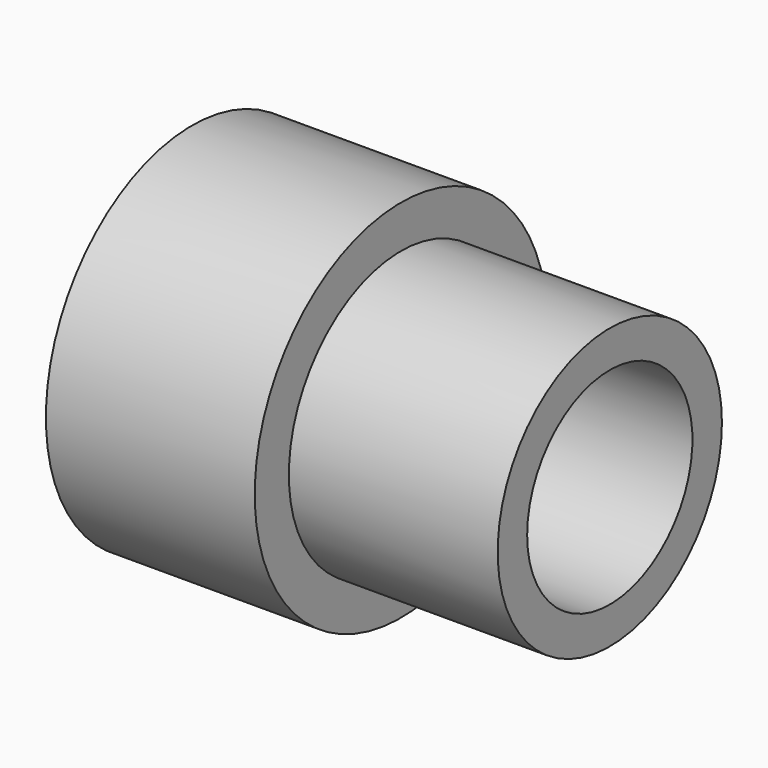
from build123d import *

# Parameters (mm, degrees)
F0_R     = 55.585182
F1_DEPTH = 63.5
F2_R     = 31.357467
F3_DEPTH = 63.5
F4_R     = 42.616489
F5_DEPTH = 63.5
F6_R     = 31.408113
F7_DEPTH = 63.5


with BuildPart() as f1:
    # F0 (on Right) → F1 (new body)
    with BuildSketch(Plane.YZ):
        Circle(F0_R)
    extrude(amount=F1_DEPTH)

    # F2 (on face) → F3 (cut)
    with BuildSketch(Plane.YZ.offset(63.5)):
        Circle(F2_R)
    extrude(amount=-F3_DEPTH, mode=Mode.SUBTRACT)

    # F4 (on face) → F5 (join)
    with BuildSketch(Plane.YZ.offset(63.5)):
        Circle(F4_R)
    extrude(amount=F5_DEPTH)

    # F6 (on face) → F7 (cut)
    with BuildSketch(Plane(origin=(63.5, 0, 0), x_dir=(0, -1, 0), z_dir=(-1, 0, 0))):
        Circle(F6_R)
    extrude(amount=-F7_DEPTH, mode=Mode.SUBTRACT)


solid = f1.part
